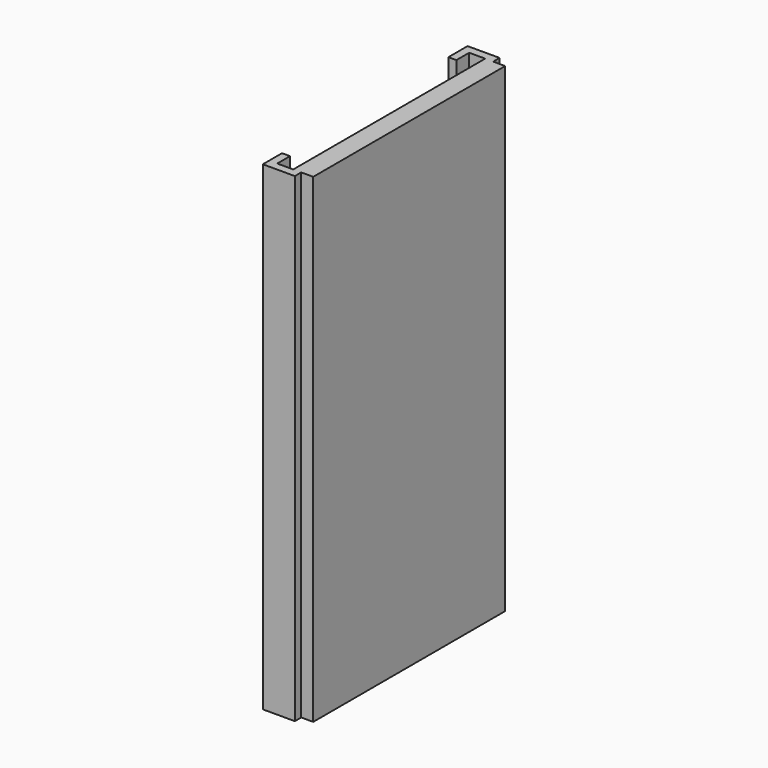
from build123d import *

# Parameters (mm, degrees)
F0_W          = 2
F0_H          = 4
F0_H_2        = 2
F1_DEPTH      = 60
F1_DEPTH_BACK = 60


with BuildPart() as f1:
    # F0 (on Top) → F1 (new body, two sides)
    with BuildSketch(Plane.XY) as f1_sk:
        Polygon((-3, 30), (-5, 30), (-5, 23.5), (-5, -23.5), (-5, -30), (-3, -30), (0, -30), (0, 30), align=None)
        Polygon((-9, 30), (-5, 30), (-3, 30), (-3, 32), (-9, 32), align=None)
        with Locations((-10, 28)):
            Rectangle(F0_W, F0_H)
        with Locations((-10, 31)):
            Rectangle(F0_W, F0_H_2)
        Polygon((-3, -30), (-5, -30), (-9, -30), (-9, -32), (-3, -32), align=None)
        with Locations((-10, -31)):
            Rectangle(F0_W, F0_H_2)
        with Locations((-10, -28)):
            Rectangle(F0_W, F0_H)
    extrude(amount=F1_DEPTH)
    extrude(f1_sk.sketch, amount=-F1_DEPTH_BACK)


solid = f1.part
